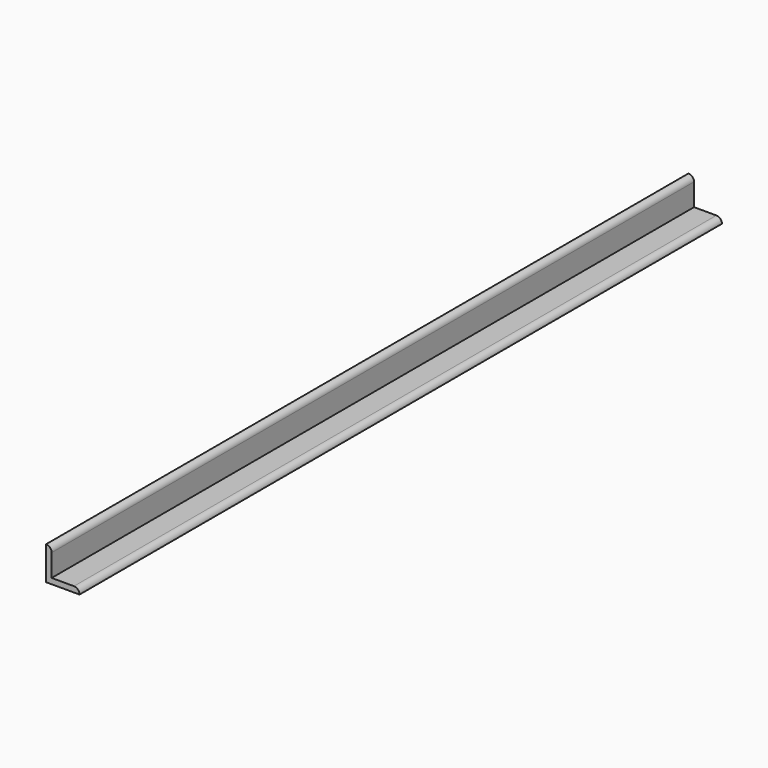
from build123d import *

# Parameters (mm, degrees)
F1_DEPTH = 228.6


with BuildPart() as f1:
    # F0 (on Front) → F1 (new body, symmetric)
    with BuildSketch(Plane.XZ):
        with BuildLine():
            ThreePointArc((3.175, 15.875), (2.245064, 18.120064), (0, 19.05))
            Line((0, 19.05), (0, 0))
            Line((0, 0), (19.05, 0))
            ThreePointArc((19.05, 0), (18.120064, 2.245064), (15.875, 3.175))
            Line((15.875, 3.175), (3.175, 3.175))
            Line((3.175, 3.175), (3.175, 15.875))
        make_face()
    extrude(amount=F1_DEPTH, both=True)


solid = f1.part
